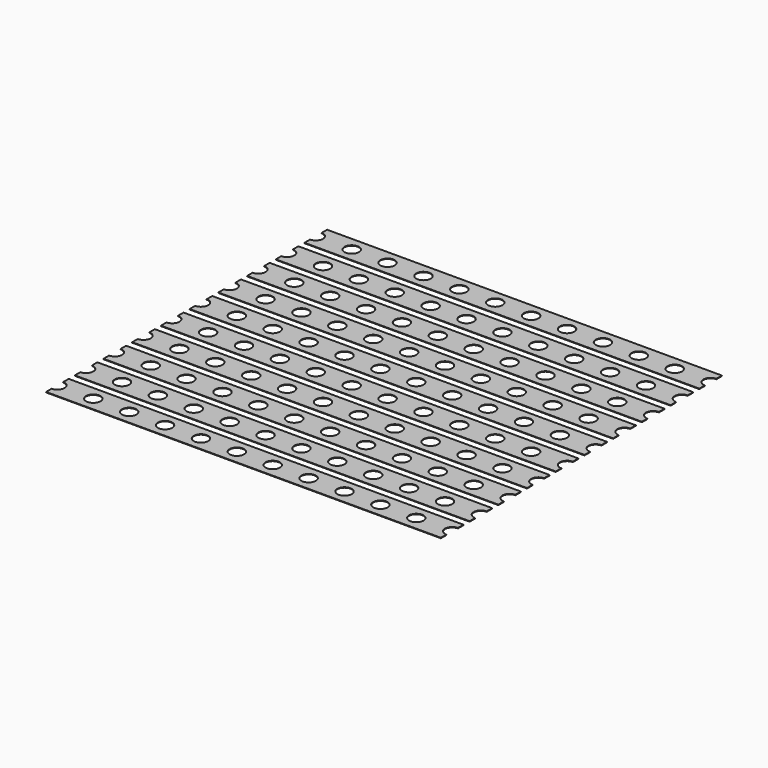
from build123d import *

# Parameters (mm, degrees)
SKETCH002_W            = 27.94
SKETCH002_H            = 2
PAD001_DEPTH           = 0.035
SKETCH003_R            = 0.51
POCKET001_DEPTH        = 0.036
LINEARPATTERN004_COUNT = 12
LINEARPATTERN004_PITCH = 2.54
ARRAY_Y_COUNT          = 10
ARRAY_Y_PITCH          = 2.54


with BuildPart() as part:
    # Sketch002 → Pad001 (new body)
    with BuildSketch(Plane.XY):
        with Locations((0, 11.43)):
            Rectangle(SKETCH002_W, SKETCH002_H)
    extrude(amount=-PAD001_DEPTH)

    # Sketch003 → Pocket001 (cut, through all)
    with BuildSketch(Plane.XY):
        with Locations((-13.97, 11.43)):
            Circle(SKETCH003_R)
    pocket001 = extrude(amount=-POCKET001_DEPTH, mode=Mode.SUBTRACT)

    # LinearPattern004: Pocket001 ×12
    with Locations(*[(i * LINEARPATTERN004_PITCH, 0, 0) for i in range(1, LINEARPATTERN004_COUNT)]):
        add(pocket001, mode=Mode.SUBTRACT)

    # Array Y: part ×10


with BuildPart() as part_1:
    add(part.part)
    with Locations(*[(0, -i * ARRAY_Y_PITCH, 0) for i in range(1, ARRAY_Y_COUNT)]):
        add(part.part)


solid = part_1.part
